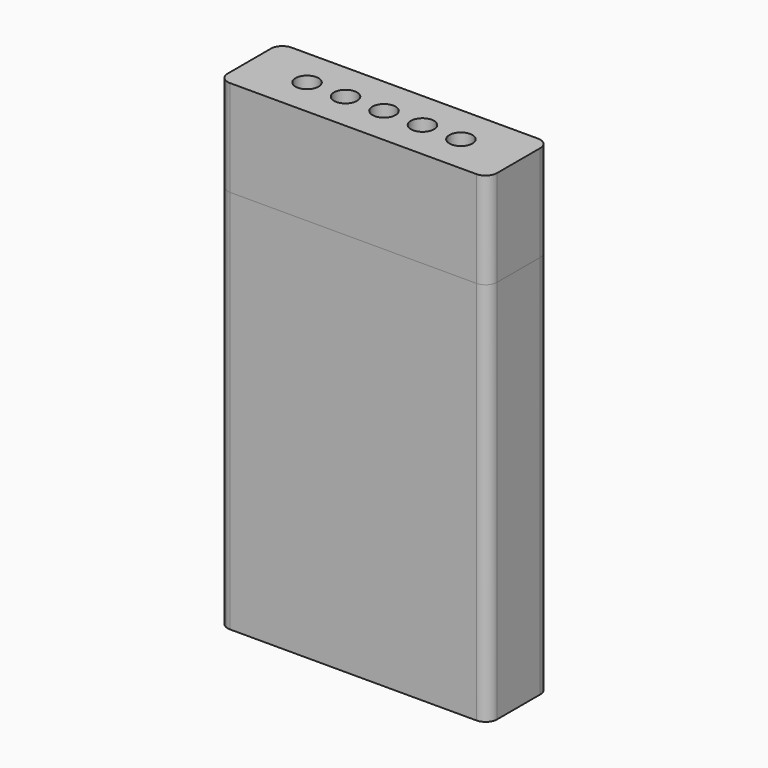
from build123d import *

# Parameters (mm, degrees)
F0_R     = 1.016
F1_DEPTH = 25.4
F2_R     = 0.762
F3_DEPTH = 6.35


with BuildPart() as f1:
    # F0 (on Top) → F1 (new body)
    with BuildSketch(Plane.XY):
        with BuildLine():
            Line((-8.128, -2.54), (8.128, -2.54))
            ThreePointArc((8.128, -2.54), (8.666815, -2.316815), (8.89, -1.778))
            Line((8.89, -1.778), (8.89, 1.778))
            ThreePointArc((8.89, 1.778), (8.666815, 2.316815), (8.128, 2.54))
            Line((8.128, 2.54), (-8.128, 2.54))
            ThreePointArc((-8.128, 2.54), (-8.666815, 2.316815), (-8.89, 1.778))
            Line((-8.89, 1.778), (-8.89, -1.778))
            ThreePointArc((-8.89, -1.778), (-8.666815, -2.316815), (-8.128, -2.54))
        make_face()
        with Locations((-5.08, 0)):
            Circle(F0_R, mode=Mode.SUBTRACT)
        with Locations((-2.54, 0)):
            Circle(F0_R, mode=Mode.SUBTRACT)
        Circle(F0_R, mode=Mode.SUBTRACT)
        with Locations((2.54, 0)):
            Circle(F0_R, mode=Mode.SUBTRACT)
        with Locations((5.08, 0)):
            Circle(F0_R, mode=Mode.SUBTRACT)
    extrude(amount=F1_DEPTH)


with BuildPart() as f3:
    # F2 (on face) → F3 (new body)
    with BuildSketch(Plane.XY.offset(25.4)):
        with BuildLine():
            ThreePointArc((8.89, 1.778), (8.666815, 2.316815), (8.128, 2.54))
            Line((8.128, 2.54), (-8.128, 2.54))
            ThreePointArc((-8.128, 2.54), (-8.666815, 2.316815), (-8.89, 1.778))
            Line((-8.89, 1.778), (-8.89, -1.778))
            ThreePointArc((-8.89, -1.778), (-8.666815, -2.316815), (-8.128, -2.54))
            Line((-8.128, -2.54), (8.128, -2.54))
            ThreePointArc((8.128, -2.54), (8.666815, -2.316815), (8.89, -1.778))
            Line((8.89, -1.778), (8.89, 1.778))
        make_face()
        with Locations((-5.08, 0)):
            Circle(F2_R, mode=Mode.SUBTRACT)
        with Locations((-2.54, 0)):
            Circle(F2_R, mode=Mode.SUBTRACT)
        Circle(F2_R, mode=Mode.SUBTRACT)
        with Locations((2.54, 0)):
            Circle(F2_R, mode=Mode.SUBTRACT)
        with Locations((5.08, 0)):
            Circle(F2_R, mode=Mode.SUBTRACT)
    extrude(amount=F3_DEPTH)


solid = Compound([f1.part, f3.part])
